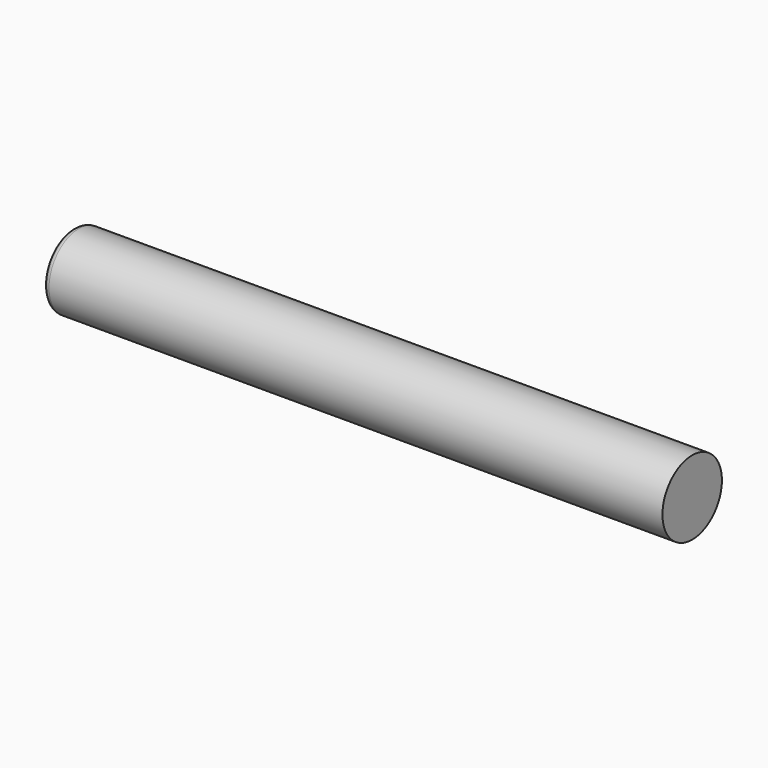
from build123d import *


with BuildPart() as f1:
    # F0 (on Top) → F1 (revolve)
    with BuildSketch(Plane.XY):
        with BuildLine():
            Line((-25, 2.5), (-25, 0))
            Line((-25, 0), (25, 0))
            Line((25, 0), (25, 3))
            Line((25, 3), (-24.5, 3))
            ThreePointArc((-24.5, 3), (-24.853553, 2.853553), (-25, 2.5))
        make_face()
    revolve(axis=Axis((0, 0, 0), (1, 0, 0)))


solid = f1.part
